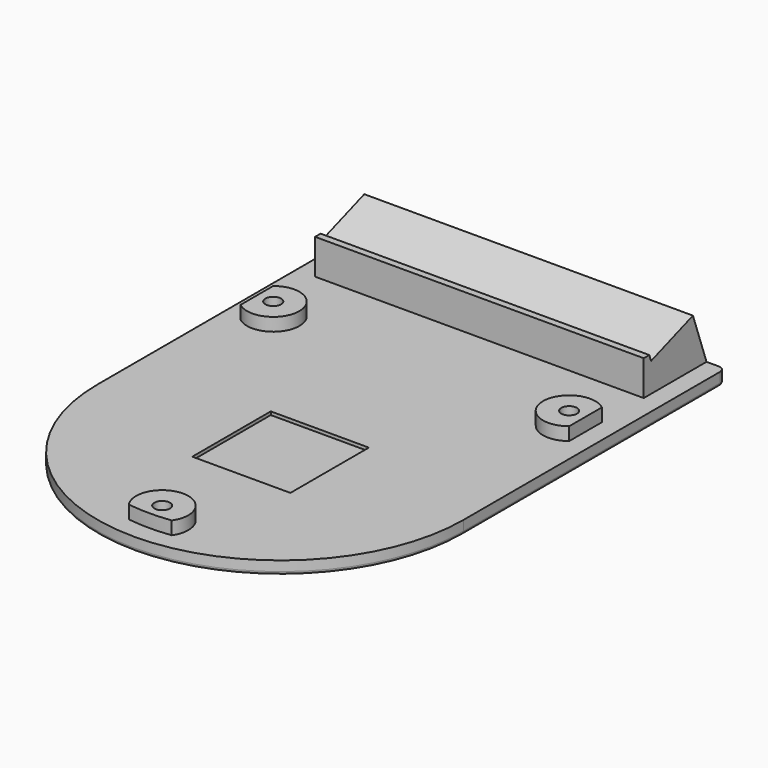
from build123d import *

# Parameters (mm, degrees)
PAD_DEPTH       = 2
SKETCH001_W     = 50.25
SKETCH001_H     = 12
PAD001_DEPTH    = 10
POCKET_DEPTH    = 53.126
SKETCH003_W     = 15
SKETCH003_H     = 15
POCKET001_DEPTH = 0.5
PAD002_DEPTH    = 2
SKETCH005_R     = 1.2
POCKET002_DEPTH = 1.3
SKETCH006_R     = 2.25
POCKET003_DEPTH = 2.5
FILLET_R        = 1
FILLET001_R     = 0.5


with BuildPart() as part:
    # Sketch → Pad (new body)
    with BuildSketch(Plane.XY):
        with BuildLine():
            ThreePointArc((-28, 0), (0, -28), (28, 0))
            Line((28, 50), (28, 0))
            Line((-28, 50), (28, 50))
            Line((-28, 0), (-28, 50))
        make_face()
    extrude(amount=PAD_DEPTH)

    # Sketch001 → Pad001 (new body)
    with BuildSketch(Plane.XY.offset(2)):
        with Locations((0, 44)):
            Rectangle(SKETCH001_W, SKETCH001_H)
    extrude(amount=PAD001_DEPTH)

    # Sketch002 → Pocket (cut, through all)
    with BuildSketch(Plane.YZ.offset(25.125)):
        Polygon((50, 2), (47.399401, 9.281678), (39.394594, 6.422819), (39.058258, 7.36456), (34, 7.36456), (34, 14), (52, 14), (52, 2), align=None)
    extrude(amount=-POCKET_DEPTH, mode=Mode.SUBTRACT)

    # Sketch003 → Pocket001 (cut)
    with BuildSketch(Plane.XY.offset(2)):
        Rectangle(SKETCH003_W, SKETCH003_H)
    extrude(amount=-POCKET001_DEPTH, mode=Mode.SUBTRACT)

    # Sketch004 → Pad002 (new body)
    with BuildSketch(Plane.XY.offset(2)):
        with BuildLine():
            ThreePointArc((-25.125, 23.755002), (-18.625, 26.877501), (-25.125, 30))
            Line((-25.125, 30), (-25.125, 23.755002))
        make_face()
        with BuildLine():
            ThreePointArc((25.125, 30), (18.625, 26.877501), (25.125, 23.755002))
            Line((25.125, 30), (25.125, 23.755002))
        make_face()
        with BuildLine():
            ThreePointArc((3.283431, -24.90953), (0, -18.625), (-3.283431, -24.90953))
            ThreePointArc((-3.283431, -24.90953), (0, -25.125), (3.283431, -24.90953))
        make_face()
    extrude(amount=PAD002_DEPTH)

    # Sketch005 → Pocket002 (cut)
    with BuildSketch(Plane.XY.offset(4)):
        with Locations((-22.625, 26.8775)):
            Circle(SKETCH005_R)
        with Locations((22.625, 26.8775)):
            Circle(SKETCH005_R)
        with Locations((0, -22.625)):
            Circle(SKETCH005_R)
    extrude(amount=-POCKET002_DEPTH, mode=Mode.SUBTRACT)

    # Sketch006 → Pocket003 (cut)
    with BuildSketch(Plane(origin=(0, 0, 0), x_dir=(1, 0, 0), z_dir=(0, 0, -1))):
        with Locations((0, 22.625)):
            Circle(SKETCH006_R)
        with Locations((-22.625, -26.8775)):
            Circle(SKETCH006_R)
        with Locations((22.625, -26.8775)):
            Circle(SKETCH006_R)
    extrude(amount=-POCKET003_DEPTH, mode=Mode.SUBTRACT)

    # Fillet
    fillet_edges = [part.edges().sort_by_distance(p)[0] for p in [
        (-28, 50, 1),
        (28, 50, 1),
    ]]
    fillet(fillet_edges, radius=FILLET_R)

    # Fillet001
    fillet001_edges = [part.edges().sort_by_distance(p)[0] for p in [
        (0, 50, 0),
        (27.707107, 49.707107, 0),
        (28, 24.5, 0),
        (0, -28, 0),
        (-28, 24.5, 0),
        (-27.707107, 49.707107, 0),
    ]]
    fillet(fillet001_edges, radius=FILLET001_R)


solid = part.part
